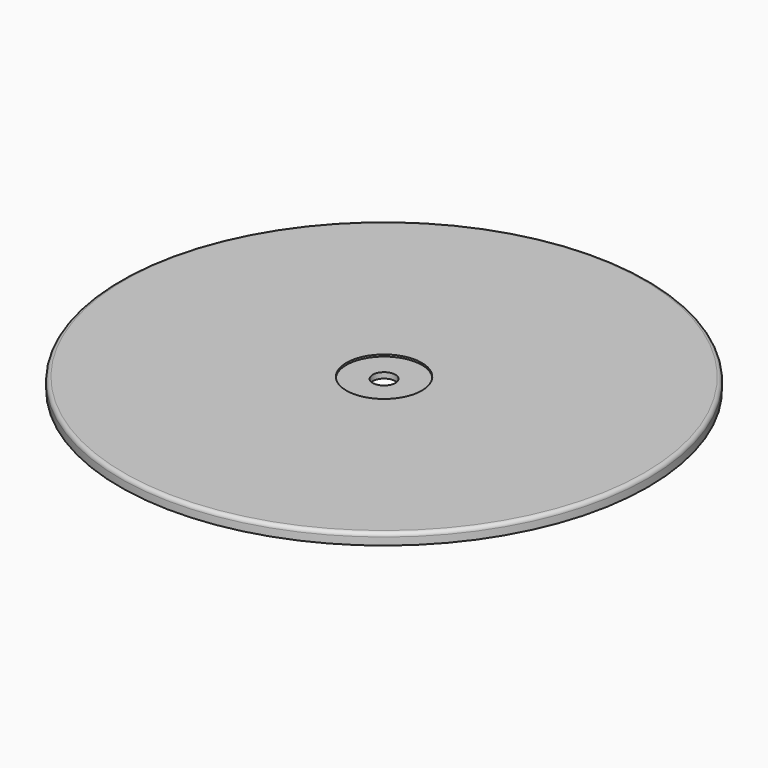
from build123d import *

# Parameters (mm, degrees)
F0_R     = 70.05
F1_DEPTH = 2
F2_R     = 1
F3_R     = 70.05
F3_R_2   = 69.55
F4_DEPTH = 1
F5_R     = 10
F6_DEPTH = 0.5
F7_R     = 3
F8_DEPTH = 1.5


with BuildPart() as f1:
    # F0 (on Top) → F1 (new body)
    with BuildSketch(Plane.XY):
        Circle(F0_R)
    extrude(amount=F1_DEPTH)

    # F2
    f2_edges = [f1.edges().sort_by_distance(p)[0] for p in [
        (-70.05, 0, 2),
    ]]
    fillet(f2_edges, radius=F2_R)

    # F3 (on face) → F4 (join)
    with BuildSketch(Plane(origin=(0, 0, 0), x_dir=(1, 0, 0), z_dir=(0, 0, -1))):
        Circle(F3_R)
        Circle(F3_R_2, mode=Mode.SUBTRACT)
    extrude(amount=F4_DEPTH)

    # F5 (on face) → F6 (cut)
    with BuildSketch(Plane.XY.offset(2)):
        Circle(F5_R)
    extrude(amount=-F6_DEPTH, mode=Mode.SUBTRACT)

    # F7 (on face) → F8 (cut, through all)
    with BuildSketch(Plane.XY.offset(1.5)):
        Circle(F7_R)
    extrude(amount=-F8_DEPTH, mode=Mode.SUBTRACT)


solid = f1.part
